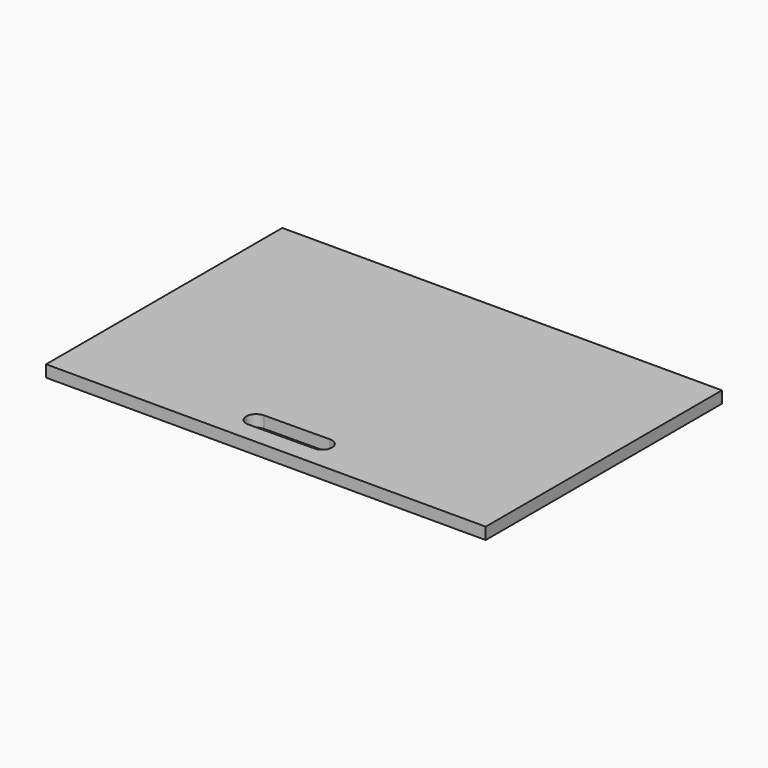
from build123d import *

# Parameters (mm, degrees)
F0_W     = 67
F0_H     = 45
F1_DEPTH = 1.8


with BuildPart() as f1:
    # F0 (on Top) → F1 (new body)
    with BuildSketch(Plane.XY):
        Rectangle(F0_W, F0_H)
        with BuildLine():
            ThreePointArc((-4.999623, -19.586849), (-6.512594, -18.099933), (-5.025678, -16.586962))
            Line((-5.025678, -16.586962), (4.973945, -16.500113))
            ThreePointArc((4.973945, -16.500113), (6.486916, -17.987029), (5, -19.5))
            Line((5, -19.5), (-4.999623, -19.586849))
        make_face(mode=Mode.SUBTRACT)
    extrude(amount=F1_DEPTH)


solid = f1.part
